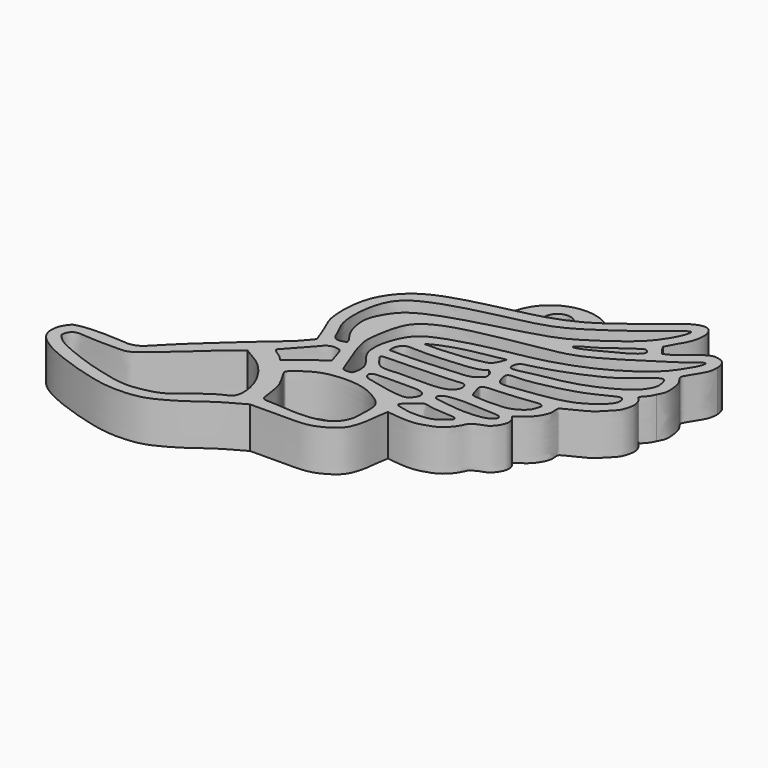
from build123d import *

# Parameters (mm, degrees)
F1_DEPTH = 5
F0_R     = 1.5875
F2_DEPTH = 3.5


with BuildPart() as f1:
    # F0 (on Top) → F1 (new body)
    with BuildSketch(Plane.XY):
        with BuildLine():
            add(Edge.make_bspline(
                [(-29.0712155402, -18.8218019903), (-28.2416422034, -18.5262205223), (-26.1424735273, -18.3659522168), (-23.8617343829, -18.4635419186), (-21.5166591463, -18.7442926603), (-19.6160585169, -16.3881917563), (-12.7131703873, -10.1508952178), (-10.4076544515, -8.3144792879), (-9.4736399537, -7.1497438206), (-9.0572908521, -6.6300309263)],
                knots=[0, 0, 0, 0, 0.135523487, 0.2582645299, 0.3703280964, 0.5055690447, 0.7486067479, 0.8881414859, 1, 1, 1, 1], degree=3))
            add(Edge.make_bspline(
                [(-5.6179435924, -21.0910271853), (-5.9499782376, -21.2783340337), (-6.7232204657, -21.7145341917), (-8.5815935504, -22.7291779557), (-10.8839250787, -24.5167642117), (-12.410616121, -25.3945222464), (-13.6506091759, -26.0439270735), (-15.2436521335, -26.5894728175), (-18.1678997542, -26.7268487823), (-20.9512051232, -26.2103094346), (-25.3445787857, -24.8651333617), (-28.4017729493, -23.4273753745), (-30.0438387184, -21.8788312587), (-29.96116279, -19.9161689516), (-29.3562017125, -19.1722491111), (-29.0712155402, -18.8218019903)],
                knots=[0, 0, 0, 0, 0.0568612384, 0.1324184427, 0.2213462229, 0.2898846127, 0.3493433523, 0.415829078, 0.5026072736, 0.5909108511, 0.7016876873, 0.7975629357, 0.8715613136, 0.9394948684, 1, 1, 1, 1], degree=3))
            add(Edge.make_bspline(
                [(5.5927643552, -14.1144059598), (5.5213550656, -14.4634133243), (5.3632788547, -15.2359985446), (5.2802912422, -16.8281072879), (4.7086955168, -18.8609855667), (3.7731292493, -19.8209253885), (2.0228745907, -20.8515352828), (0.3086448453, -21.088596476), (-1.7790182168, -21.072390224), (-4.0400305445, -21.0705001513), (-5.1263654442, -21.0846322567), (-5.6179435924, -21.0910271853)],
                knots=[0, 0, 0, 0, 0.0889546873, 0.1969158353, 0.3179249952, 0.4153809458, 0.5332879862, 0.6444703538, 0.7670013264, 0.8945656109, 1, 1, 1, 1], degree=3))
            add(Edge.make_bspline(
                [(15.3921078891, -7.506663911), (15.5221651737, -7.6563504757), (15.7903728494, -7.9650381874), (15.9641792143, -8.6719463939), (15.6656010154, -9.5031567463), (14.9537106164, -10.4366336586), (14.1951253929, -10.6180131679), (13.5012550213, -10.9569268502), (13.0228403518, -11.2576867237), (12.812071053, -11.9490548089), (12.0953848573, -12.9355026921), (11.1751730796, -13.6731915042), (9.9677180762, -14.0799934698), (9.0402754216, -14.3247402118), (7.8312808751, -14.3913216918), (6.8020705682, -14.2530267428), (5.978580296, -14.1922227738), (5.7040428363, -14.1368501773), (5.5927643552, -14.1144059598)],
                knots=[0, 0, 0, 0, 0.052112223, 0.1074672461, 0.1706621659, 0.2422945014, 0.3014432595, 0.3602805918, 0.4092143401, 0.4649040265, 0.5390012442, 0.6129012222, 0.6879964964, 0.7545282459, 0.8280791882, 0.8981536941, 0.958718558, 1, 1, 1, 1], degree=3))
            add(Edge.make_bspline(
                [(23.2940521091, 4.6328045428), (23.2048601398, 4.4091406913), (23.0222170197, 3.9511323753), (22.419610536, 3.4241830251), (22.2484355474, 3.0185010321), (22.584990779, 2.8432772087), (22.9758174048, 2.0905838607), (23.0299191881, 1.4004264006), (22.7018127439, 0.0560517163), (21.9764231521, -0.6725071761), (20.9859658158, -1.730281858), (20.0635415464, -2.2969912959), (18.7285402908, -2.9575688638), (18.0408220912, -3.2762072859), (17.7275789619, -3.503400286), (17.812462914, -4.1068531448), (17.8301607073, -4.7519379617), (17.3566389106, -5.6913303914), (16.7630028569, -6.4866581496), (15.747331137, -7.1756226704), (15.4906643896, -7.4148166955), (15.3921078891, -7.506663911)],
                knots=[0, 0, 0, 0, 0.0502495837, 0.1028987342, 0.1370607932, 0.1694989235, 0.2220385997, 0.2719205285, 0.3387304227, 0.3991218089, 0.4683343091, 0.5307463732, 0.6023234734, 0.6531785943, 0.6862006202, 0.7294741113, 0.7770221271, 0.8357632515, 0.8957967993, 0.9599874042, 1, 1, 1, 1], degree=3))
            add(Edge.make_bspline(
                [(24.3611438633, 12.5146089122), (24.3486706133, 12.170689601), (24.3110353141, 11.4393559171), (23.5827015997, 10.266463658), (23.0674582318, 9.4348859856), (22.7348999292, 8.8896429021), (23.0324390309, 8.4069222158), (23.5517471992, 7.7444552166), (23.7433130208, 6.3315584585), (23.7290610804, 5.4257059851), (23.4379994869, 4.8953312484), (23.2940521091, 4.6328045428)],
                knots=[0, 0, 0, 0, 0.1188792045, 0.2544017099, 0.3709762069, 0.4571653076, 0.5376020283, 0.6439947319, 0.7814010107, 0.8918096518, 1, 1, 1, 1], degree=3))
            add(Edge.make_bspline(
                [(18.4969268739, 11.4712622017), (18.8709377183, 11.6483257671), (19.6833368758, 12.0329303675), (20.9245716104, 13.2012171645), (22.3008805628, 14.1911677735), (23.1447639485, 14.1583242396), (23.9799791175, 13.8595135656), (24.3062087003, 13.1238265612), (24.3434885747, 12.7104017854), (24.3611438633, 12.5146089122)],
                knots=[0, 0, 0, 0, 0.1574489115, 0.3419990756, 0.5204145827, 0.6445203736, 0.7707633192, 0.8914363361, 1, 1, 1, 1], degree=3))
            add(Edge.make_bspline(
                [(17.6123511046, 12.6847205684), (17.7192527026, 12.4915665612), (17.9444713323, 12.0846326929), (18.3066557983, 11.68251298), (18.4969268739, 11.4712622017)],
                knots=[0, 0, 0, 0, 0.4746569952, 1, 1, 1, 1], degree=3))
            add(Edge.make_bspline(
                [(10.4514971177, 13.0933887391), (11.0041952173, 13.4853646936), (12.593939059, 14.6957836216), (15.2306108458, 16.6250638367), (16.7596594665, 18.0777840935), (17.982588663, 18.4468078463), (18.7871081812, 18.3086240858), (19.2019822855, 17.5310777201), (19.360706719, 16.756366844), (19.0723913448, 15.1715818737), (18.2532353386, 13.9329240225), (17.8228505134, 13.0946949056), (17.6123511046, 12.6847205684)],
                knots=[0.5985651867, 0.5985651867, 0.5985651867, 0.5985651867, 0.6339000594, 0.7013414965, 0.750217662, 0.7869848687, 0.8158084927, 0.8458677188, 0.8760774077, 0.9182819971, 0.9600320683, 1, 1, 1, 1], degree=3))
            add(Edge.make_bspline(
                [(0.2122667541, 9.2619936932), (0.8474959001, 9.41098599), (2.9923947915, 9.899661278), (5.4787577295, 10.4812604564), (8.4331252306, 11.7312407537), (9.961040668, 12.7455548401), (10.4514971177, 13.0933887391)],
                knots=[0.41116606, 0.41116606, 0.41116606, 0.41116606, 0.437084749, 0.5018364129, 0.5672095221, 0.5985651867, 0.5985651867, 0.5985651867, 0.5985651867], degree=3))
            add(Edge.make_bspline(
                [(-9.0572908521, -6.6300309263), (-9.3650701244, -5.7816474872), (-9.9462832665, -4.179552581), (-10.9316741576, -2.4135679468), (-10.9059003361, 2.2808336606), (-9.2022278775, 5.1758704505), (-7.2552550976, 6.8942446643), (-4.4647926885, 8.1208559281), (-1.2302558657, 8.9236516011), (0.2122667541, 9.2619936932)],
                knots=[0, 0, 0, 0, 0.0542259067, 0.1024006893, 0.1742481767, 0.2361891072, 0.2888519528, 0.3523080945, 0.41116606, 0.41116606, 0.41116606, 0.41116606], degree=3))
        make_face()
        with BuildLine():
            add(Edge.make_bspline(
                [(-28.5337809473, -21.1573839188), (-28.2552445992, -21.4848117905), (-27.5388149945, -22.3269963828), (-23.9864496755, -23.6899843062), (-22.1117111759, -24.3292594441), (-18.659545949, -25.2369692872), (-16.6842789575, -25.3345544721), (-13.6300942188, -24.7446909788), (-12.066006386, -23.374435278), (-9.2287873276, -21.1491147181), (-7.5613230391, -20.7816967265), (-7.6644302205, -18.0933727185), (-8.7664226208, -15.8000477307), (-10.3530253091, -13.9057232745), (-12.0501950764, -13.0154363353), (-12.5534442807, -12.6895869663), (-12.752183713, -12.5609049574)],
                knots=[0, 0, 0, 0, 0.0574922384, 0.1478770793, 0.2185723173, 0.3054309879, 0.3743239876, 0.4544050919, 0.5248433273, 0.6138379046, 0.6707832523, 0.7417110902, 0.818877098, 0.8933378362, 0.9578777717, 1, 1, 1, 1], degree=3))
            add(Edge.make_bspline(
                [(-12.752183713, -12.5609049574), (-13.0567386544, -12.7959975969), (-13.7693238975, -13.3460577764), (-15.4096047497, -14.7511376369), (-17.8111782922, -17.0140903645), (-19.3383412001, -18.220191003), (-20.5434743591, -19.2996433789), (-21.643754394, -20.0455549314), (-23.1554232346, -19.916600891), (-24.6117224453, -20.0042764529), (-26.0608527946, -19.9056178455), (-27.1916663018, -19.800129586), (-27.6876247333, -19.838659258), (-28.227305852, -20.0109033027), (-28.6114532001, -20.7810560303), (-28.5560875914, -21.0493065555), (-28.5337809473, -21.1573839188)],
                knots=[0, 0, 0, 0, 0.0698373496, 0.1634025851, 0.2790784243, 0.3682583685, 0.4474712631, 0.518525022, 0.5946620951, 0.6717676063, 0.7489205908, 0.8154861348, 0.8592064152, 0.9051792984, 0.9617970127, 1, 1, 1, 1], degree=3))
        make_face(mode=Mode.SUBTRACT)
        with BuildLine():
            add(Edge.make_bspline(
                [(-8.873604238, -11.9456723332), (-8.9500276372, -12.0176002383), (-9.0264510363, -12.0895281434), (-9.1028744355, -12.1614560485)],
                knots=[0, 0, 0, 0, 0.3148450972, 0.3148450972, 0.3148450972, 0.3148450972], degree=3))
            add(Edge.make_bspline(
                [(-9.1028744355, -12.1614560485), (-9.2724336307, -11.9687280298), (-9.6075411697, -11.5878308925), (-10.1898082592, -11.2557625746), (-10.698680651, -10.8796763957), (-10.715184023, -10.7613596417), (-10.6723605355, -10.6006170588), (-10.472097943, -10.3950261287), (-9.5784094154, -9.3304317855), (-8.4175076811, -8.1883259101), (-7.8642038273, -7.4180987056), (-7.4275339173, -7.0488971188), (-7.0145003389, -6.8788989157), (-6.6268793992, -6.8605918364), (-6.1217681506, -6.9299835644), (-5.8068160159, -7.1299935152), (-5.6090325166, -7.9295581469), (-5.3549585199, -8.6050154684), (-5.248116835, -8.9633479587), (-5.1805722919, -9.2254269961), (-5.4670092172, -9.4418991704), (-5.7398392631, -9.6172624263), (-6.6337097767, -10.2012328362), (-7.3427716471, -10.8826515293), (-8.3645426805, -11.5857766786), (-8.7244241449, -11.8402051918), (-8.873604238, -11.9456723332)],
                knots=[0, 0, 0, 0, 0.0473289756, 0.0935384043, 0.1352620147, 0.1523473082, 0.1728075261, 0.2005605707, 0.2642978718, 0.3361517162, 0.3887065649, 0.4289844086, 0.4644586306, 0.4985989786, 0.5368532615, 0.5685142016, 0.6173436824, 0.6647180957, 0.6977445516, 0.7238753491, 0.7539964979, 0.7858083279, 0.8408116926, 0.8972751505, 0.9574179164, 1, 1, 1, 1], degree=3))
        make_face(mode=Mode.SUBTRACT)
        with BuildLine():
            add(Edge.make_bspline(
                [(-7.1930214763, -13.9722675085), (-7.0708543229, -14.299207099), (-6.2108337231, -15.5723740076), (-5.7411481754, -16.9083470321), (-5.5512406199, -18.5795270536), (-5.405019929, -19.5861141785), (-3.9308803366, -19.458068145), (-1.6921117327, -19.7457687846), (0.8383577364, -19.6865215902), (2.78023232, -19.0415546923), (3.8693593404, -17.5476542714), (3.8878713547, -15.8305103786), (3.9565962563, -14.2922714407), (3.6042876695, -13.347319953), (2.4773396286, -12.4755155955), (0.4103236348, -11.380686434), (-2.6766552224, -11.3432691088), (-4.7703083791, -11.815734667), (-6.2667978071, -12.8203673814), (-7.2264975074, -13.6029700268), (-7.245582879, -13.8316044659), (-7.1930214763, -13.9722675085)],
                knots=[0, 0, 0, 0, 0.05506048, 0.1070862249, 0.1607874867, 0.1978236448, 0.2434699733, 0.3072805637, 0.3737522843, 0.4319584031, 0.4858702737, 0.5401913409, 0.591353261, 0.6313016642, 0.6792402326, 0.7426714153, 0.8153395038, 0.8761259199, 0.9323027661, 0.9763106859, 1, 1, 1, 1], degree=3))
        make_face(mode=Mode.SUBTRACT)
        with BuildLine():
            add(Edge.make_bspline(
                [(5.3915395401, -12.3103661463), (5.4462935189, -12.5083703859), (6.4789321004, -12.7080897339), (7.3151172608, -12.9268898555), (9.7808881427, -12.8509722872), (10.6986215327, -12.0747246374), (11.4914861868, -11.4379744484), (11.356049861, -11.0863976257), (10.6903385902, -10.9646869904), (9.4236718815, -10.9249140859), (8.3285416812, -10.8667657777), (7.5364556488, -10.5930676518), (7.0295737165, -10.6421002688), (6.2604877417, -11.4439775234), (5.3331202816, -12.0991073278), (5.3915395401, -12.3103661463)],
                knots=[0, 0, 0, 0, 0.0783913446, 0.1588647024, 0.2771352778, 0.3654834017, 0.4388507842, 0.476771166, 0.5376688344, 0.6269914198, 0.7102969996, 0.7796565522, 0.8311280146, 0.9163610695, 1, 1, 1, 1], degree=3))
        make_face(mode=Mode.SUBTRACT)
        with BuildLine():
            add(Edge.make_bspline(
                [(-0.437593495, -8.9308293536), (-0.6000849138, -9.0096913911), (-0.7794935616, -9.2630662908), (-0.4596481141, -9.8670999852), (0.4510189975, -10.0401392986), (2.334057306, -10.5071039253), (3.8355844046, -10.7386829196), (5.1923088136, -10.8121708034), (5.6654833818, -10.1510990296), (6.0091691318, -9.5606142697), (5.7470836061, -8.9882379331), (5.0004660069, -8.7219243985), (3.4703337348, -8.7547514429), (1.2300311174, -8.7728148941), (-0.1238333677, -8.7785520019), (-0.437593495, -8.9308293536)],
                knots=[0, 0, 0, 0, 0.0485881299, 0.1034405169, 0.1739910366, 0.2785396685, 0.3740314067, 0.4568814553, 0.5211328798, 0.5809913528, 0.6348405258, 0.6979537509, 0.7901886671, 0.9061795512, 1, 1, 1, 1], degree=3))
        make_face(mode=Mode.SUBTRACT)
        with BuildLine():
            add(Edge.make_bspline(
                [(-0.7778150029, -7.229720708), (-1.2108589115, -7.030674718), (-1.733904399, -6.275813844), (-2.1430036179, -5.7393520131), (-2.0221523005, -5.4775196111), (-0.4303682832, -5.4645912354), (4.1356008162, -5.3444999084), (7.2448747762, -5.1316192567), (7.5905350968, -5.044968456), (7.9464049847, -5.3863631632), (8.0368314529, -5.9337085042), (7.7187852521, -6.6184957786), (6.6610033387, -7.2401061384), (3.9881767854, -7.3042172276), (1.2018768682, -7.2072857749), (-0.2775168568, -7.4596796978), (-0.7778150029, -7.229720708)],
                knots=[0, 0, 0, 0, 0.0743365147, 0.1232358382, 0.1476432577, 0.2195444785, 0.360303981, 0.4682894351, 0.5009338407, 0.5413400243, 0.5868721007, 0.6384587626, 0.7045884279, 0.8066710591, 0.9141185922, 1, 1, 1, 1], degree=3))
        make_face(mode=Mode.SUBTRACT)
        with BuildLine():
            add(Edge.make_bspline(
                [(7.6143224724, -8.2730669528), (7.4179160272, -8.3687994352), (7.1985074088, -8.5919429953), (7.2394820041, -9.1485799068), (8.5045744459, -9.227961968), (10.4163130335, -9.589298385), (12.1820598905, -9.5488624525), (13.5051655681, -9.3871889888), (14.348144497, -8.990164905), (14.6087404593, -8.5033281113), (14.3556136833, -8.1595360081), (13.6941561437, -8.059677061), (12.2607973882, -8.0989650317), (10.8577213417, -7.9570502196), (9.119504468, -7.9204499073), (7.9479931668, -8.110429093), (7.6143224724, -8.2730669528)],
                knots=[0, 0, 0, 0, 0.0503108537, 0.0929841425, 0.1664665078, 0.26724755, 0.3612540137, 0.4422832348, 0.5086357235, 0.5560826203, 0.5962487411, 0.6518724317, 0.7358265154, 0.8205214823, 0.9145279704, 1, 1, 1, 1], degree=3))
        make_face(mode=Mode.SUBTRACT)
        with BuildLine():
            add(Edge.make_bspline(
                [(9.2247053981, -4.8481682315), (9.2634793148, -5.1789037777), (9.5670426114, -6.091081897), (9.7240796333, -6.5123362914), (11.7704364656, -6.606143667), (13.8347779706, -6.5259910854), (14.9285744187, -6.1007315692), (15.960314081, -5.3045894894), (16.1442534125, -4.5533903534), (16.3102709455, -4.0374048568), (16.0611096382, -3.9158362746), (15.8184733198, -3.7586021311), (14.458947705, -3.9890773686), (11.6167798946, -4.2625727165), (9.2909220535, -4.3177067502), (9.2032953118, -4.6655434889), (9.2247053981, -4.8481682315)],
                knots=[0, 0, 0, 0, 0.0790133117, 0.1227913179, 0.2189275559, 0.3226647759, 0.3982330641, 0.4757251335, 0.5377539365, 0.5852179103, 0.61726494, 0.6519026492, 0.729626977, 0.8547765633, 0.9563706234, 1, 1, 1, 1], degree=3))
        make_face(mode=Mode.SUBTRACT)
        with BuildLine():
            add(Edge.make_bspline(
                [(7.697661873, -1.4215691481), (7.8449653211, -1.5080639932), (8.1714498361, -1.6997718447), (8.4820634843, -2.5640611242), (8.0906566411, -2.9712584662), (7.2576271225, -3.6714242229), (5.3711558423, -3.7310297931), (2.1134408541, -4.0309726182), (-1.389410138, -4.1304284728), (-2.0336365967, -4.1011111811), (-2.2392417304, -4.0917545557)],
                knots=[0, 0, 0, 0, 0.0793182473, 0.1758015838, 0.2517725257, 0.3589141913, 0.5030801854, 0.7051353081, 0.9058938148, 1, 1, 1, 1], degree=3))
            add(Edge.make_bspline(
                [(-2.2392417304, -4.0917545557), (-2.258212187, -3.8038975691), (-2.2924734611, -3.2840182998), (-1.9802907036, -2.8221769668), (-1.5279678975, -2.3295096424), (0.3037385189, -2.5339670762), (3.5371360061, -2.3038944953), (6.79699096, -2.0816600793), (7.4602068655, -1.5955970807), (7.697661873, -1.4215691481)],
                knots=[0, 0, 0, 0, 0.1076342181, 0.1943909694, 0.2841341311, 0.4390447371, 0.6644053966, 0.8798451328, 1, 1, 1, 1], degree=3))
        make_face(mode=Mode.SUBTRACT)
        with BuildLine():
            add(Edge.make_bspline(
                [(-0.5036213552, -1.0401142063), (-0.0882995087, -1.0513355868), (0.9762141012, -1.0800971662), (4.5205168329, -0.79618507), (5.9604626616, -0.475114411), (6.5914420411, -0.3344223369)],
                knots=[0, 0, 0, 0, 0.2643894316, 0.6776579433, 1, 1, 1, 1], degree=3))
            add(Edge.make_bspline(
                [(-0.5036213552, -1.0401142063), (-0.0632497015, -0.7894869091), (0.9569104496, -0.2088864568), (3.6952809146, 0.6034511789), (5.9220532925, 0.95934335), (7.1327313837, 1.2085987216), (7.697661873, 1.3249070616)],
                knots=[0, 0, 0, 0, 0.2203481267, 0.5104560575, 0.7715674373, 1, 1, 1, 1], degree=3))
            add(Edge.make_bspline(
                [(6.5914420411, -0.3344223369), (6.755158764, -0.2582039066), (7.1361238065, -0.0808453753), (7.556491736, 0.8820900689), (7.6570788497, 1.1976078133), (7.697661873, 1.3249070616)],
                knots=[0, 0, 0, 0, 0.310129314, 0.7216637691, 1, 1, 1, 1], degree=3))
        make_face(mode=Mode.SUBTRACT)
        with BuildLine():
            add(Edge.make_bspline(
                [(22.8795725852, 12.5587582588), (23.002384252, 12.5186407918), (22.9075759967, 11.8244674562), (22.1246629441, 10.5497752676), (20.9070651648, 8.5899839966), (16.4472857706, 5.3254116072), (10.5448350937, 3.2504902371), (6.0874274216, 2.5429579942), (2.7528425347, 1.7712539875), (-0.5766503686, 0.732343391), (-2.4135903822, -0.3874250766), (-3.4143382551, -2.5419801609), (-3.7142049096, -3.9313189832), (-3.7512852548, -5.7297732878), (-2.7602689069, -7.0274362876), (-1.7999634757, -8.2480092772), (-2.0149561095, -9.709276532), (-2.2455633764, -10.0054434871), (-3.2701563018, -10.0434025103), (-3.4881195456, -9.2213422682), (-4.6620879682, -6.416110845), (-5.1664384784, -4.6345582101), (-5.3240101817, -3.4788352034), (-4.7993782099, -0.1458314523), (-3.8217787257, 1.7726387775), (-1.1192183729, 3.3201251408), (4.2003122759, 4.4773379907), (9.7114074796, 5.4217434787), (13.3168618849, 6.1624900368), (19.8036526883, 10.4917776838), (21.2267131952, 11.3744642754), (22.6683359976, 12.6277604722), (22.8795725852, 12.5587582588)],
                knots=[0, 0, 0, 0, 0.0161094961, 0.0424264674, 0.0742674598, 0.1238731398, 0.1779474742, 0.2229170713, 0.2624551453, 0.3018385562, 0.3327810594, 0.3645627683, 0.3903551708, 0.4179681152, 0.4449024732, 0.4714534049, 0.4959051761, 0.5082762566, 0.5275654657, 0.5458357427, 0.5832426386, 0.612370945, 0.6351926675, 0.6737064052, 0.7047513331, 0.7407400057, 0.7910835593, 0.8409742918, 0.8834067872, 0.9413490806, 0.9722915983, 1, 1, 1, 1], degree=3))
        make_face(mode=Mode.SUBTRACT)
        with BuildLine():
            add(Edge.make_bspline(
                [(17.7955683321, 16.7348627001), (17.9297761758, 16.6705254791), (17.7289458055, 15.7011141783), (16.5935659517, 13.7135201249), (14.8909606192, 11.7107754254), (10.1878000435, 8.502279708), (7.4867709104, 7.3041569591), (0.1493008829, 5.4238251358), (-2.8890141427, 4.4344753845), (-6.0265573961, 3.0928109454), (-7.3085143184, 1.1984269893), (-8.0326132484, -0.3131392802), (-7.9724848993, -1.9822523796), (-7.47850127, -3.794242766), (-6.2467696607, -5.1914402699), (-6.6262435623, -5.4242150472), (-7.8611906971, -5.7469165642), (-8.3430186329, -4.1955437648), (-9.4500018365, -2.5000190955), (-9.416016388, 0.6204053801), (-8.9969719232, 2.5996395502), (-7.5752195962, 5.8442852675), (2.0555265481, 8.1644019564), (7.1506218167, 9.1923112694), (11.5061731785, 12.0819879428), (15.420343418, 14.9035813993), (17.5620457768, 16.8468098995), (17.7955683321, 16.7348627001)],
                knots=[0, 0, 0, 0, 0.0216076682, 0.0580394339, 0.0977602695, 0.1532461023, 0.1968265663, 0.2612530231, 0.3058398584, 0.3484401589, 0.3840415043, 0.4143119314, 0.4444257044, 0.4783659757, 0.5084364027, 0.5207715854, 0.5449766114, 0.5726791675, 0.6071866428, 0.6485123913, 0.6823570914, 0.7239669276, 0.7976828785, 0.8538836, 0.9070415651, 0.9624025113, 1, 1, 1, 1], degree=3))
        make_face(mode=Mode.SUBTRACT)
        with BuildLine():
            add(Edge.make_bspline(
                [(9.7003011033, -1.1736230226), (9.5390513228, -1.4254381542), (9.8270697834, -2.3703289182), (10.2259589596, -2.9905801834), (11.8133783705, -2.7986155302), (15.1134850154, -2.371588178), (17.9143279904, -1.8040255665), (19.9295950639, -0.6805340129), (21.5665807619, 0.8148464181), (21.4122604703, 1.8217782758), (21.0088584654, 2.1040870999), (20.1471508878, 1.740616246), (18.1452174442, 0.6664682151), (15.7668536868, -0.0772606796), (13.2362868464, -0.6593239794), (11.0892352122, -1.0210433524), (9.8675455369, -0.9124463628), (9.7003011033, -1.1736230226)],
                knots=[0, 0, 0, 0, 0.0554192439, 0.0974567588, 0.1583197989, 0.2540823477, 0.3419261279, 0.4209464898, 0.4953064816, 0.5420413093, 0.5734288543, 0.6201447108, 0.6981314793, 0.7809040051, 0.8641458183, 0.9425204795, 1, 1, 1, 1], degree=3))
        make_face(mode=Mode.SUBTRACT)
        with BuildLine():
            add(Edge.make_bspline(
                [(21.811498329, 7.5044790283), (22.0218679328, 7.4749044176), (22.20346807, 6.9266501822), (22.3831135594, 6.0472094642), (22.0020530352, 5.1836371516), (21.4217222509, 4.3767230303), (20.2299966444, 3.4974958701), (18.6307822878, 2.5647793513), (15.8021555597, 1.3878405863), (12.5524560648, 0.8026481653), (11.1688823413, 0.5631911873), (8.9138995377, -0.0979588148), (8.8338007365, 0.8509063875), (9.2278291941, 1.566379809), (10.5616869905, 1.7532469264), (14.3221812504, 2.9599300143), (18.0616071265, 4.6591800061), (19.6976553278, 6.0945189295), (21.4165462361, 7.5600029927), (21.811498329, 7.5044790283)],
                knots=[0, 0, 0, 0, 0.0360158049, 0.0790779406, 0.121442386, 0.1658313277, 0.2193839163, 0.2802829689, 0.3598798047, 0.4403403098, 0.4973294994, 0.5598088072, 0.594459251, 0.6322298621, 0.6813480865, 0.7713369096, 0.8624411186, 0.9323832091, 1, 1, 1, 1], degree=3))
        make_face(mode=Mode.SUBTRACT)
        with BuildLine():
            add(Edge.make_bspline(
                [(16.4902023971, 11.1473742872), (16.2025550329, 10.998327713), (14.7081022089, 10.0390948522), (12.9245525873, 8.5048443911), (11.1108436888, 7.7310832606), (10.8133674155, 7.1266798783), (12.0951695298, 7.4813503665), (14.3053548632, 8.7081992324), (16.4297843486, 9.7504914783), (17.4103657941, 10.7769804735), (16.7234172223, 11.2406014782), (16.5943129267, 11.2013199155), (16.4902023971, 11.1473742872)],
                knots=[0, 0, 0, 0, 0.1209685964, 0.2636168166, 0.3843326334, 0.4334499233, 0.517135904, 0.662007471, 0.8010211601, 0.8912045226, 0.9562168606, 1, 1, 1, 1], degree=3))
        make_face(mode=Mode.SUBTRACT)
    extrude(amount=F1_DEPTH)

    # F0 (on Top) → F2 (join)
    with BuildSketch(Plane.XY):
        with BuildLine():
            ThreePointArc((10.4514971177, 13.0933887391), (3.6174430738, 15.7594517089), (0.2122667541, 9.2619936932))
            add(Edge.make_bspline(
                [(0.2122667541, 9.2619936932), (0.8474959001, 9.41098599), (2.9923947915, 9.899661278), (5.4787577295, 10.4812604564), (8.4331252306, 11.7312407537), (9.961040668, 12.7455548401), (10.4514971177, 13.0933887391)],
                knots=[0.41116606, 0.41116606, 0.41116606, 0.41116606, 0.437084749, 0.5018364129, 0.5672095221, 0.5985651867, 0.5985651867, 0.5985651867, 0.5985651867], degree=3))
        make_face()
        with Locations((4.7629866749, 12.7112502232)):
            Circle(F0_R, mode=Mode.SUBTRACT)
    extrude(amount=F2_DEPTH)


solid = f1.part
